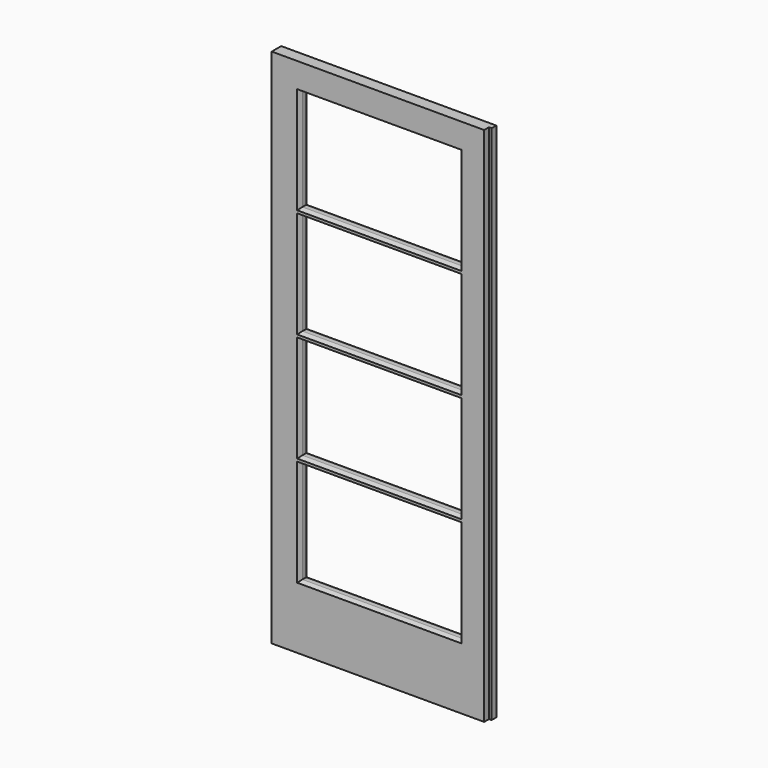
from build123d import *

# Parameters (mm, degrees)
F0_W     = 815
F0_H     = 1975
F0_W_2   = 610
F0_H_2   = 392.25
F1_DEPTH = 22.5
F2_SIZE2 = 17
F2_SIZE  = 6
F3_SIZE2 = 13
F3_SIZE  = 6
F4_W     = 10
F4_H     = 23
F5_DEPTH = 1975.001


with BuildPart() as f1:
    # F0 (on Front) → F1 (new body, symmetric)
    with BuildSketch(Plane.XZ):
        Rectangle(F0_W, F0_H)
        with Locations((0, -551.375)):
            Rectangle(F0_W_2, F0_H_2, mode=Mode.SUBTRACT)
        with Locations((0, -137.125)):
            Rectangle(F0_W_2, F0_H_2, mode=Mode.SUBTRACT)
        with Locations((0, 277.125)):
            Rectangle(F0_W_2, F0_H_2, mode=Mode.SUBTRACT)
        with Locations((0, 691.375)):
            Rectangle(F0_W_2, F0_H_2, mode=Mode.SUBTRACT)
    extrude(amount=F1_DEPTH, both=True)

    # F2
    f2_edges = [f1.edges().sort_by_distance(p)[0] for p in [
        (305, -22.5, -551.375),
        (0, -22.5, -355.25),
        (305, -22.5, -137.125),
        (0, -22.5, 59),
        (305, -22.5, 277.125),
        (0, -22.5, 473.25),
        (305, -22.5, 691.375),
        (0, -22.5, 887.5),
        (-305, -22.5, 691.375),
        (0, -22.5, 495.25),
        (-305, -22.5, 277.125),
        (0, -22.5, 81),
        (-305, -22.5, -137.125),
        (0, -22.5, -333.25),
        (-305, -22.5, -551.375),
        (0, -22.5, -747.5),
    ]]
    f2_side = f1.faces().sort_by_distance((0, -22.5, 966.13449))[0]
    chamfer(f2_edges, length=F2_SIZE, length2=F2_SIZE2, reference=f2_side)

    # F3
    f3_edges = [f1.edges().sort_by_distance(p)[0] for p in [
        (0, 22.5, -747.5),
        (305, 22.5, -551.375),
        (0, 22.5, -355.25),
        (-305, 22.5, -551.375),
        (-305, 22.5, -137.125),
        (0, 22.5, 59),
        (-305, 22.5, 277.125),
        (0, 22.5, -333.25),
        (305, 22.5, -137.125),
        (0, 22.5, 81),
        (305, 22.5, 277.125),
        (0, 22.5, 473.25),
        (305, 22.5, 691.375),
        (0, 22.5, 887.5),
        (-305, 22.5, 691.375),
        (0, 22.5, 495.25),
    ]]
    f3_side = f1.faces().sort_by_distance((0, 22.5, 966.13449))[0]
    chamfer(f3_edges, length=F3_SIZE, length2=F3_SIZE2, reference=f3_side)

    # F4 (on face) → F5 (cut, through all)
    with BuildSketch(Plane(origin=(0, 0, -987.5), x_dir=(1, 0, 0), z_dir=(0, 0, -1))):
        with Locations((402.5, 11)):
            Rectangle(F4_W, F4_H)
    extrude(amount=-F5_DEPTH, mode=Mode.SUBTRACT)


solid = f1.part
